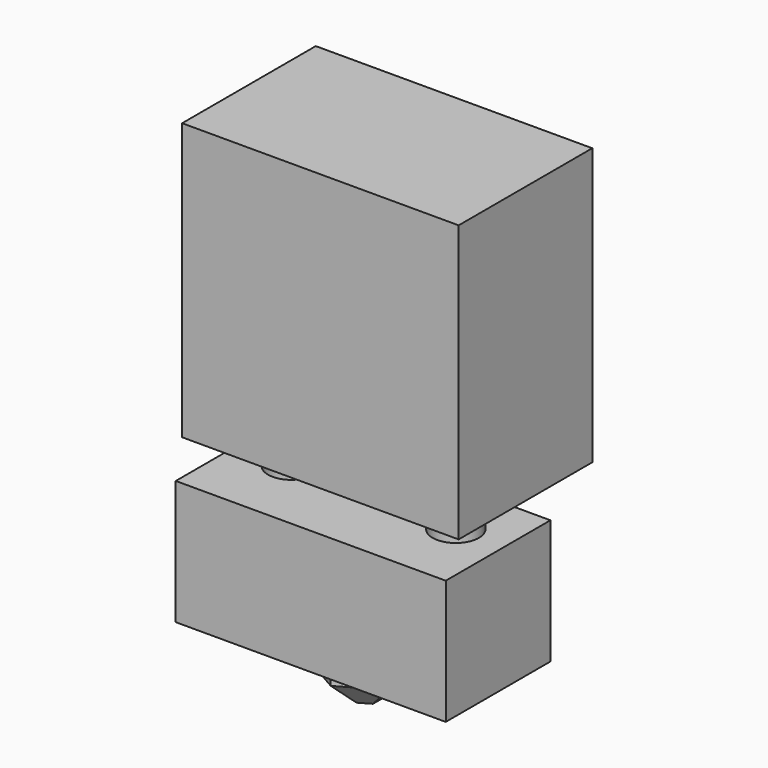
from build123d import *

# Parameters (mm, degrees)
F0_W     = 29.8
F0_H     = 29.8
F1_DEPTH = 18
F2_R     = 2.5
F3_DEPTH = 3.8
F4_W     = 29.1
F4_H     = 14.1
F4_R     = 2.5
F5_DEPTH = 13.4
F6_R     = 1.5
F7_DEPTH = 5
F9_DEPTH = 5
F10_SIZE = 3


with BuildPart() as f1:
    # F0 (on Front) → F1 (new body)
    with BuildSketch(Plane.XZ):
        with Locations((-14.1908051446, 38.2720534908)):
            Rectangle(F0_W, F0_H)
    extrude(amount=F1_DEPTH)

    # F6 (on face) → F7 (cut)
    with BuildSketch(Plane(origin=(0, 0, 0), x_dir=(-1, 0, 0), z_dir=(0, 1, 0))):
        with Locations((9.7908051446, 42.6720534908)):
            Circle(F6_R)
        with Locations((18.5908051446, 42.6720534908)):
            Circle(F6_R)
        with Locations((14.1908051446, 33.0720534908)):
            Circle(F6_R)
    extrude(amount=-F7_DEPTH, mode=Mode.SUBTRACT)


with BuildPart() as f3:
    # F2 (on face) → F3 (new body)
    with BuildSketch(Plane(origin=(0, 0, 23.3720534908), x_dir=(1, 0, 0), z_dir=(0, 0, -1))):
        with Locations((-5.1908051446, 11.0112141835)):
            Circle(F2_R)
    extrude(amount=F3_DEPTH)


with BuildPart() as f3b:
    # F2 (on face) → F3, piece 2 (new body)
    with BuildSketch(Plane(origin=(0, 0, 23.3720534908), x_dir=(1, 0, 0), z_dir=(0, 0, -1))):
        with Locations((-23.1908051446, 10.6696703852)):
            Circle(F2_R)
    extrude(amount=F3_DEPTH)

    # F4 (on face) → F5 (join)
    with BuildSketch(Plane(origin=(0, 0, 19.5720534908), x_dir=(1, 0, 0), z_dir=(0, 0, -1))):
        with Locations((-14.55, 11.7996069203)):
            Rectangle(F4_W, F4_H)
        with Locations((-23.1908051446, 10.6696703852)):
            Circle(F4_R, mode=Mode.SUBTRACT)
        with Locations((-23.1908051446, 10.6696703852)):
            Circle(F4_R)
    extrude(amount=F5_DEPTH)

    # F8 (on face) → F9 (join)
    with BuildSketch(Plane(origin=(0, 0, 6.1720534908), x_dir=(1, 0, 0), z_dir=(0, 0, -1))):
        Polygon((-18.2797089219, 14.3322658172), (-18.2797089219, 9.4597849616), (-14.0600167215, 7.0235445338), (-9.8403245211, 9.4597849616), (-9.8403245211, 14.3322658172), (-14.0600167215, 16.7685062451), align=None)
    extrude(amount=F9_DEPTH)

    # F10
    f10_edges = [f3b.edges().sort_by_distance(p)[0] for p in [
        (-11.950171, -15.550386, 1.172053),
        (-18.279709, -11.896025, 1.172053),
        (-16.169863, -15.550386, 1.172053),
        (-16.169863, -8.241665, 1.172053),
        (-11.950171, -8.241665, 1.172053),
        (-9.840325, -11.896025, 1.172053),
    ]]
    chamfer(f10_edges, length=F10_SIZE)


solid = Compound([f1.part, f3.part, f3b.part])
